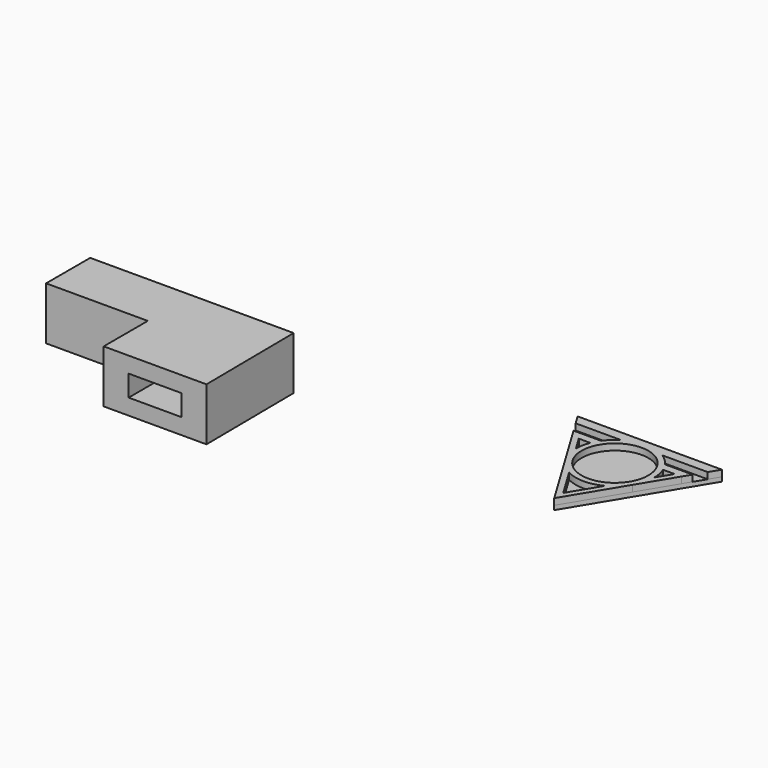
from build123d import *

# Parameters (mm, degrees)
F1_DEPTH = 25
F2_W     = 25
F2_H     = 10
F3_DEPTH = 52.170427
F5_DEPTH = 2
F6_R     = 15.801011
F7_DEPTH = 3


with BuildPart() as f1:
    # F0 (on Top) → F1 (new body)
    with BuildSketch(Plane.XY):
        Polygon((62.235128, 20.872559), (-33.998102, 20.872559), (-33.998102, -5.212154), (14.118513, -5.212154), (14.118513, -31.296868), (62.737178, -31.296868), align=None)
    extrude(amount=F1_DEPTH)

    # F2 (on face) → F3 (cut, through all)
    with BuildSketch(Plane.XZ.offset(31.296868)):
        with Locations((38.427846, 12.5)):
            Rectangle(F2_W, F2_H)
    extrude(amount=-F3_DEPTH, mode=Mode.SUBTRACT)


with BuildPart() as f5:
    # F4 (on face) → F5 (new body)
    with BuildSketch(Plane.XY.offset(25)):
        Polygon((191.765636, 26.84707), (225.894317, -29.640514), (260.022998, 26.84707), (225.894317, 26.84707), align=None)
    extrude(amount=F5_DEPTH)

    # F6 (on face) → F7 (join)
    with BuildSketch(Plane.XY.offset(27)):
        with BuildLine():
            Line((260.022998, 26.84707), (191.765636, 26.84707))
            Line((191.765636, 26.84707), (194.665964, 22.046635))
            Line((194.665964, 22.046635), (216.1623, 22.046635))
            ThreePointArc((216.1623, 22.046635), (213.200082, 19.78226), (210.750307, 16.971437))
            Line((210.750307, 16.971437), (197.732298, 16.971437))
            Line((197.732298, 16.971437), (200.016264, 13.191165))
            Line((200.016264, 13.191165), (225.894317, -29.640514))
            Line((225.894317, -29.640514), (241.77795, -3.350952))
            ThreePointArc((241.77795, -3.350952), (243.791512, 1.339047), (244.451262, 6.400198))
            ThreePointArc((244.451262, 6.400198), (244.096702, 9.859108), (243.103139, 13.191165))
            Line((243.103139, 13.191165), (248.55423, 13.191165))
            Line((248.55423, 13.191165), (251.77237, 13.191165))
            Line((251.77237, 13.191165), (254.056336, 16.971437))
            Line((254.056336, 16.971437), (241.038327, 16.971437))
            ThreePointArc((241.038327, 16.971437), (238.588552, 19.78226), (235.626334, 22.046635))
            Line((235.626334, 22.046635), (257.12267, 22.046635))
            Line((257.12267, 22.046635), (260.022998, 26.84707))
        make_face()
        with BuildLine():
            ThreePointArc((217.399103, -10.253328), (225.894317, -12.311964), (234.389531, -10.253328))
            Line((234.389531, -10.253328), (225.894317, -24.314057))
            Line((225.894317, -24.314057), (217.399103, -10.253328))
        make_face(mode=Mode.SUBTRACT)
        with BuildLine():
            Line((207.337372, 6.400198), (203.234404, 13.191165))
            Line((203.234404, 13.191165), (208.685495, 13.191165))
            ThreePointArc((208.685495, 13.191165), (207.691932, 9.859108), (207.337372, 6.400198))
        make_face(mode=Mode.SUBTRACT)
        with Locations((225.894317, 6.245625)):
            Circle(F6_R, mode=Mode.SUBTRACT)
        with BuildLine():
            Line((241.77795, -3.350952), (251.77237, 13.191165))
            Line((251.77237, 13.191165), (248.55423, 13.191165))
            Line((248.55423, 13.191165), (244.451262, 6.400198))
            ThreePointArc((244.451262, 6.400198), (243.791512, 1.339047), (241.77795, -3.350952))
        make_face()
    extrude(amount=F7_DEPTH)


solid = Compound([f1.part, f5.part])
